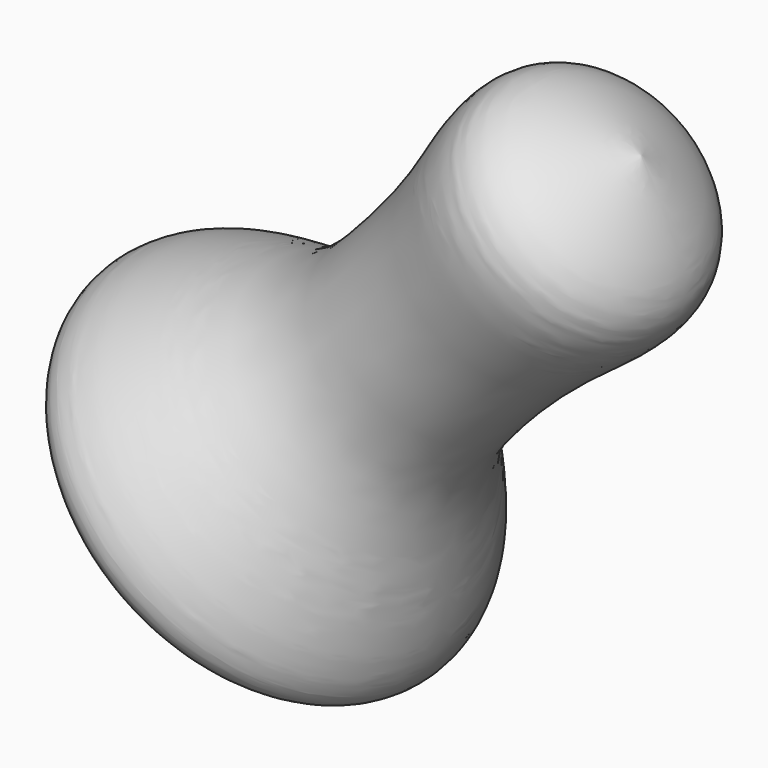
from build123d import *


with BuildPart() as f1:
    # F0 (on Front) → F1 (revolve)
    with BuildSketch(Plane.XZ):
        with BuildLine():
            add(Edge.make_bspline(
                [(30.7952128351, 36.8391387165), (31.9003393584, 34.9612095221), (34.2099359354, 31.0365377785), (36.9447545808, 21.600166844), (24.9853874637, 14.2991444578), (16.127105852, 5.473176826), (9.4891966707, -2.8425509151), (10.0376891406, -29.098267068), (-5.1420657953, -16.8789073049), (-13.2390642539, -10.3610064834)],
                knots=[0, 0, 0, 0, 0.1052725349, 0.2200083711, 0.3632047695, 0.5064011501, 0.6413369562, 0.8086863638, 1, 1, 1, 1], degree=3))
            Line((30.7952128351, 36.8391387165), (-13.2390642539, -10.3610064834))
        make_face()
    revolve(axis=Axis((8.7780742906, 0, 13.2390661165), (-0.6821593392, 0, -0.731203553)))


solid = f1.part
